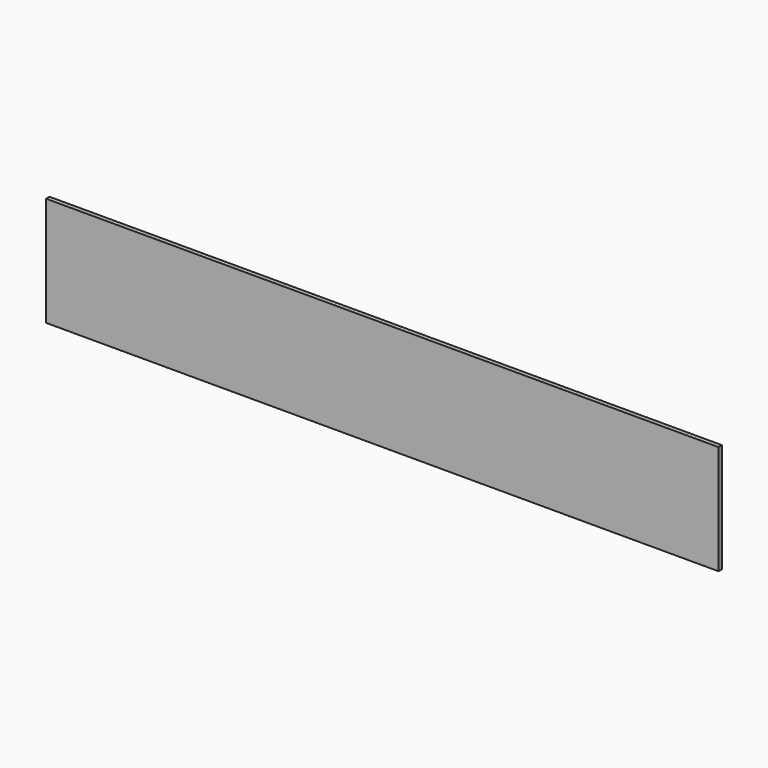
from build123d import *

# Parameters (mm, degrees)
F0_W     = 47.8422194719
F0_H     = 47.8707104921
F1_DEPTH = 18
F2_DEPTH = 2830
F3_DEPTH = 500
F4_DEPTH = 50
F5_DEPTH = 50
F6_DEPTH = 20
F7_DEPTH = 10


with BuildPart() as f1:
    # F0 (on Front) → F1 (new body)
    with BuildSketch(Plane.XZ):
        with Locations((23.921109736, 23.9353552461)):
            Rectangle(F0_W, F0_H)
    extrude(amount=F1_DEPTH)

    # F2 (add): a face of the model
    f2_faces = [f1.faces().sort_by_distance(p)[0] for p in [
        (0, -9, 23.9353552461),
    ]]
    extrude(f2_faces, amount=-F2_DEPTH)

    # F3 (add): a face of the model
    f3_faces = [f1.faces().sort_by_distance(p)[0] for p in [
        (1415, -9, 0),
    ]]
    extrude(f3_faces, amount=-F3_DEPTH)

    # F4 (add): a face of the model
    f4_faces = [f1.faces().sort_by_distance(p)[0] for p in [
        (1415, -9, 500),
    ]]
    extrude(f4_faces, amount=-F4_DEPTH)

    # F5 (cut): a face of the model
    f5_faces = [f1.faces().sort_by_distance(p)[0] for p in [
        (1415, -9, 500),
    ]]
    extrude(f5_faces, amount=-F5_DEPTH, mode=Mode.SUBTRACT)

    # F6 (add): a face of the model
    f6_faces = [f1.faces().sort_by_distance(p)[0] for p in [
        (1415, -9, 450),
    ]]
    extrude(f6_faces, amount=F6_DEPTH)

    # F7 (cut): a face of the model
    f7_faces = [f1.faces().sort_by_distance(p)[0] for p in [
        (1415, -9, 470),
    ]]
    extrude(f7_faces, amount=-F7_DEPTH, mode=Mode.SUBTRACT)


solid = f1.part
